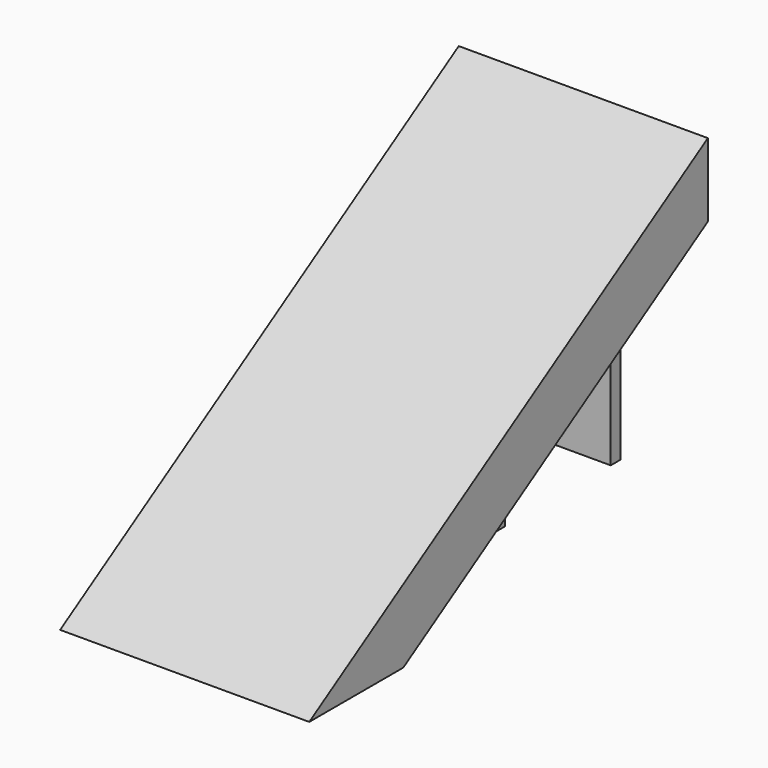
from build123d import *

# Parameters (mm, degrees)
F2_DEPTH = 12.7
F3_DEPTH = 3.81


with BuildPart() as f2:
    # F0 (on Right) → F2 (new body, symmetric)
    with BuildSketch(Plane.YZ):
        Polygon((-38.818844, 0), (0, 24.261778), (0, 31.75), (-50.8, 0), align=None)
    extrude(amount=F2_DEPTH, both=True)


with BuildPart() as f3:
    # F1 (on Right) → F3 (new body, symmetric)
    with BuildSketch(Plane.YZ):
        Polygon((0, 0), (0, 23.66272), (-1.27, 22.86897), (-1.27, 0), align=None)
        Polygon((-14.733193, 0), (-14.733193, 14.454474), (-16.003193, 13.660724), (-16.003193, 0), align=None)
    extrude(amount=F3_DEPTH, both=True)


solid = Compound([f2.part, f3.part])
